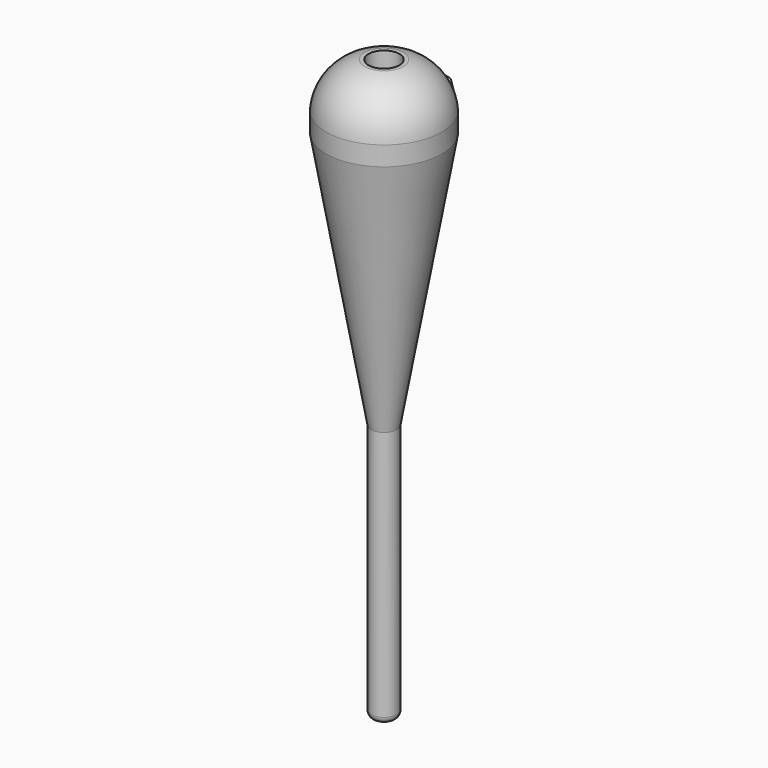
from build123d import *

# Parameters (mm, degrees)
F0_R      = 0.9
F1_DEPTH  = 3
F5_W      = 1.6
F5_H      = 8
F6_DEPTH  = 9
F7_R      = 0.9
F8_DEPTH  = 11.2
F9_R      = 2.4
F10_DEPTH = 14


with BuildPart() as f1:
    # F0 (on Top) → F1 (new body)
    with BuildSketch(Plane.XY):
        with BuildLine():
            Line((-1.414214, 11.313708), (-6.363961, 6.363961))
            ThreePointArc((-6.363961, 6.363961), (0, -9), (6.363961, 6.363961))
            Line((6.363961, 6.363961), (1.414214, 11.313708))
            ThreePointArc((1.414214, 11.313708), (0, 11.899495), (-1.414214, 11.313708))
        make_face()
        with Locations((0, 9.899495)):
            Circle(F0_R, mode=Mode.SUBTRACT)
    extrude(amount=F1_DEPTH)

    # F2 (on Right) → F3 (revolve)
    with BuildSketch(Plane.YZ):
        with BuildLine():
            Line((0, 10), (0, 3))
            Line((0, 3), (9, 3))
            ThreePointArc((9, 3), (7.163441, 7.497235), (3, 10))
            Line((3, 10), (0, 10))
        make_face()
        with BuildLine():
            Line((9, 0), (0, 0))
            Line((0, 0), (0, -80))
            Line((0, -80), (1, -80))
            ThreePointArc((1, -80), (1.707107, -79.707107), (2, -79))
            Line((2, -79), (2, -40))
            Line((2, -40), (9, 0))
        make_face()
    revolve(axis=Axis((0, 0, -40), (0, 0, -1)))

    # F5 (on offset) → F6 (cut)
    with BuildSketch(Plane.XZ.offset(-9)):
        with Locations((0, -72.8)):
            Rectangle(F5_W, F5_H)
    extrude(amount=F6_DEPTH, mode=Mode.SUBTRACT)

    # F7 (on face) → F8 (cut)
    with BuildSketch(Plane(origin=(0, 0, -80), x_dir=(1, 0, 0), z_dir=(0, 0, -1))):
        Circle(F7_R)
    extrude(amount=-F8_DEPTH, mode=Mode.SUBTRACT)

    # F9 (on face) → F10 (cut)
    with BuildSketch(Plane.XY.offset(10)):
        Circle(F9_R)
    extrude(amount=-F10_DEPTH, mode=Mode.SUBTRACT)


solid = f1.part
